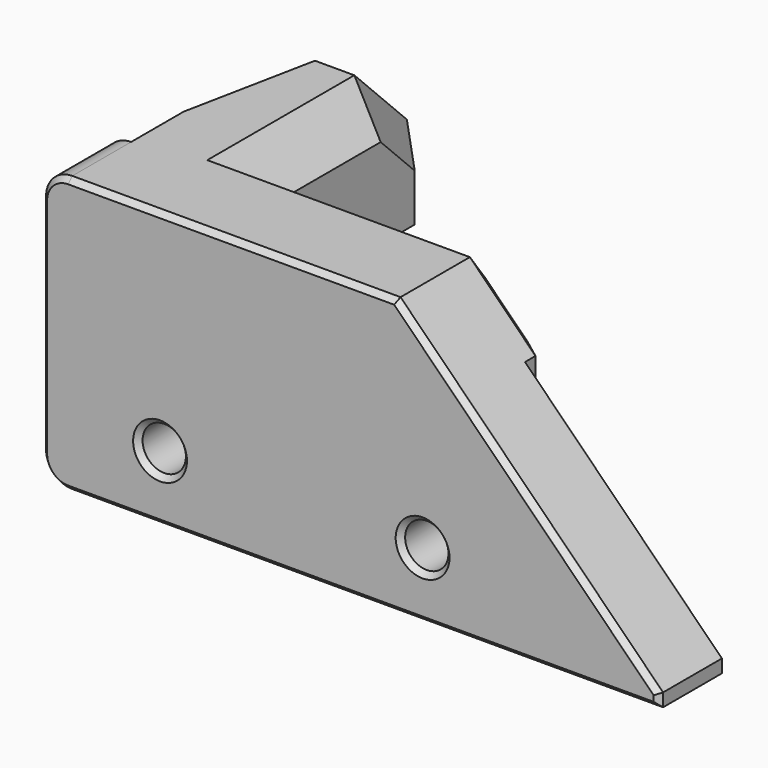
from build123d import *

# Parameters (mm, degrees)
CYLINDER007_R     = 1.65
CYLINDER007_DEPTH = 15
CYLINDER008_R     = 1.65
CYLINDER008_DEPTH = 15
BOX027_W          = 4
BOX027_H          = 15
BOX027_DEPTH      = 9.85
CHAMFER017_SIZE2  = 2
CHAMFER017_SIZE   = 10
BOX024_W          = 6
BOX024_H          = 20
BOX024_DEPTH      = 9.85
CHAMFER015_SIZE   = 5
CHAMFER016_SIZE   = 3
BOX026_W          = 27
BOX026_H          = 4
BOX026_DEPTH      = 9.85
CHAMFER010_SIZE   = 5
CHAMFER011_SIZE   = 3
BOX022_W          = 47
BOX022_H          = 6
BOX022_DEPTH      = 21
CHAMFER008_SIZE   = 20
FILLET004_R       = 2
CHAMFER009_SIZE   = 0.4
CHAMFER018_SIZE   = 0.4


with BuildPart() as cylinder007:
    # Cylinder007 → Cylinder007 (new body)
    with BuildSketch(Plane(origin=(-59, -36, 9), x_dir=(1, 0, 0), z_dir=(0, -1, 0))):
        Circle(CYLINDER007_R)
    extrude(amount=CYLINDER007_DEPTH)


with BuildPart() as fusion002003009:
    # Cylinder008 → Cylinder008 (new body)
    with BuildSketch(Plane(origin=(-79, -36, 9), x_dir=(1, 0, 0), z_dir=(0, -1, 0))):
        Circle(CYLINDER008_R)
    extrude(amount=CYLINDER008_DEPTH)

    # Fusion002003009: union Cylinder007
    add(cylinder007.part)


with BuildPart() as chamfer017:
    # Box027 → Box027 (new body)
    with BuildSketch(Plane(origin=(-86, -43, 15.15), x_dir=(1, 0, 0), z_dir=(0, 0, 1))):
        with Locations((2, 7.5)):
            Rectangle(BOX027_W, BOX027_H)
    extrude(amount=BOX027_DEPTH)

    # Chamfer017
    chamfer017_edges = [chamfer017.edges().sort_by_distance(p)[0] for p in [
        (-86, -28, 20.075),
    ]]
    chamfer017_side = chamfer017.faces().sort_by_distance((-86, -35.5, 20.075))[0]
    chamfer(chamfer017_edges, length=CHAMFER017_SIZE, length2=CHAMFER017_SIZE2, reference=chamfer017_side)


with BuildPart() as chamfer016:
    # Box024 → Box024 (new body)
    with BuildSketch(Plane(origin=(-84, -43, 15.15), x_dir=(1, 0, 0), z_dir=(0, 0, 1))):
        with Locations((3, 10)):
            Rectangle(BOX024_W, BOX024_H)
    extrude(amount=BOX024_DEPTH)

    # Chamfer015
    chamfer015_edges = [chamfer016.edges().sort_by_distance(p)[0] for p in [
        (-81, -23, 25),
    ]]
    chamfer(chamfer015_edges, length=CHAMFER015_SIZE)

    # Chamfer016
    chamfer016_edges = [chamfer016.edges().sort_by_distance(p)[0] for p in [
        (-78, -35.5, 25),
        (-78, -25.5, 22.5),
        (-78, -23, 17.575),
    ]]
    chamfer(chamfer016_edges, length=CHAMFER016_SIZE)


with BuildPart() as chamfer011:
    # Box026 → Box026 (new body)
    with BuildSketch(Plane(origin=(-83, -43, 15.15), x_dir=(1, 0, 0), z_dir=(0, 0, 1))):
        with Locations((13.5, 2)):
            Rectangle(BOX026_W, BOX026_H)
    extrude(amount=BOX026_DEPTH)

    # Chamfer010
    chamfer010_edges = [chamfer011.edges().sort_by_distance(p)[0] for p in [
        (-56, -41, 25),
    ]]
    chamfer(chamfer010_edges, length=CHAMFER010_SIZE)

    # Chamfer011
    chamfer011_edges = [chamfer011.edges().sort_by_distance(p)[0] for p in [
        (-56, -39, 17.575),
        (-58.5, -39, 22.5),
        (-72, -39, 25),
    ]]
    chamfer(chamfer011_edges, length=CHAMFER011_SIZE)


with BuildPart() as wing:
    # Box022 → Box022 (new body)
    with BuildSketch(Plane(origin=(-88, -49, 4), x_dir=(1, 0, 0), z_dir=(0, 0, 1))):
        with Locations((23.5, 3)):
            Rectangle(BOX022_W, BOX022_H)
    extrude(amount=BOX022_DEPTH)

    # Chamfer008
    chamfer008_edges = [wing.edges().sort_by_distance(p)[0] for p in [
        (-41, -46, 25),
    ]]
    chamfer(chamfer008_edges, length=CHAMFER008_SIZE)

    # Fillet004
    fillet004_edges = [wing.edges().sort_by_distance(p)[0] for p in [
        (-88, -46, 4),
        (-88, -46, 25),
    ]]
    fillet(fillet004_edges, radius=FILLET004_R)

    # Chamfer009
    chamfer009_edges = [wing.edges().sort_by_distance(p)[0] for p in [
        (-63.5, -49, 4),
        (-87.414214, -49, 4.585786),
        (-88, -49, 14.5),
        (-87.414214, -49, 24.414214),
        (-73.5, -49, 25),
        (-51, -49, 15),
        (-41, -49, 4.5),
    ]]
    chamfer(chamfer009_edges, length=CHAMFER009_SIZE)

    # Fusion002003007: union Chamfer017, Chamfer016, Chamfer011
    add(chamfer017.part)
    add(chamfer016.part)
    add(chamfer011.part)

    # Cut004: cut Fusion002003009
    add(fusion002003009.part, mode=Mode.SUBTRACT)

    # Chamfer018
    chamfer018_edges = [wing.edges().sort_by_distance(p)[0] for p in [
        (-80.65, -49, 9),
        (-60.65, -49, 9),
    ]]
    chamfer(chamfer018_edges, length=CHAMFER018_SIZE)


solid = wing.part
